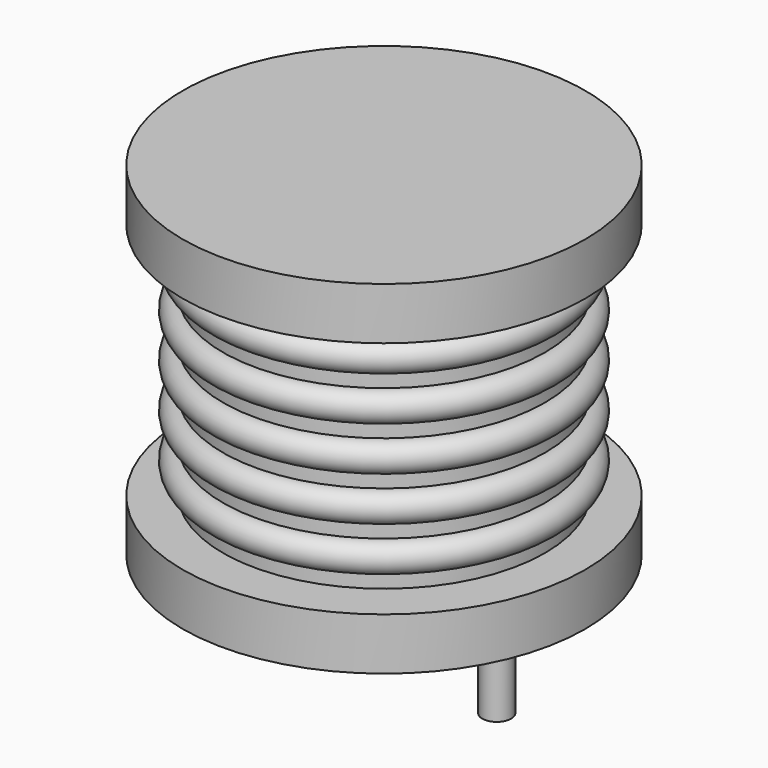
from build123d import *

# Parameters (mm, degrees)
SKETCH001_R  = 0.45
PAD001_DEPTH = 3.5


with BuildPart() as revolution:
    # Sketch → Revolution (revolve)
    with BuildSketch(Plane(origin=(3.5, 0, 0), x_dir=(1, 0, 0), z_dir=(0, -1, 0))):
        Polygon((0, 0.05), (2.6, 0.05), (2.6, 0.2), (6.25, 0.2), (6.25, 1.82), (1.25, 1.82), (1.25, 9.23), (6.25, 9.23), (6.25, 10.85), (0, 10.85), align=None)
    revolve(axis=Axis((3.5, 0, 0), (0, 0, 1)))


with BuildPart() as pad001:
    # Sketch001 → Pad001 (new body)
    with BuildSketch(Plane.XY.offset(0.5)):
        Circle(SKETCH001_R)
        with Locations((7, 0)):
            Circle(SKETCH001_R)
    extrude(amount=-PAD001_DEPTH)


with BuildPart() as obj1:
    # Sketch002 → Revolution001 (revolve)
    with BuildSketch(Plane(origin=(3.5, 0, 0), x_dir=(1, 0, 0), z_dir=(0, -1, 0))):
        with BuildLine():
            Line((5, 1.87), (1.25, 1.87))
            Line((1.25, 1.87), (1.25, 9.18))
            Line((1.25, 9.18), (5, 9.18))
            Line((5, 9.18), (5, 8.723125))
            ThreePointArc((5, 7.809375), (5.456875, 8.26625), (5, 8.723125))
            Line((5, 7.809375), (5, 7.3525))
            ThreePointArc((5, 6.43875), (5.456875, 6.895625), (5, 7.3525))
            Line((5, 6.43875), (5, 5.981875))
            ThreePointArc((5, 5.068125), (5.456875, 5.525), (5, 5.981875))
            Line((5, 5.068125), (5, 4.61125))
            ThreePointArc((5, 3.6975), (5.456875, 4.154375), (5, 4.61125))
            Line((5, 3.6975), (5, 3.240625))
            ThreePointArc((5, 2.326875), (5.456875, 2.78375), (5, 3.240625))
            Line((5, 1.87), (5, 2.326875))
        make_face()
    revolve(axis=Axis((3.5, 0, 0), (0, 0, 1)))

    add(revolution.part)
    add(pad001.part)


solid = obj1.part
